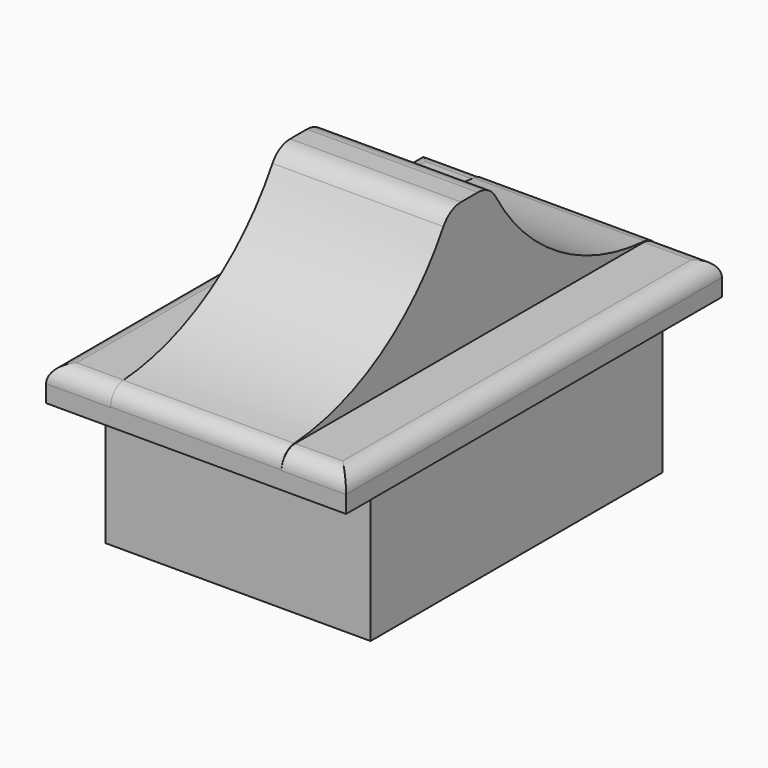
from build123d import *

# Parameters (mm, degrees)
SKETCH_W     = 15.49
SKETCH_H     = 21.33
PAD_DEPTH    = 8.13
SKETCH001_W  = 17.55
SKETCH001_H  = 27.48
PAD001_DEPTH = 2
SKETCH002_W  = 10
SKETCH002_H  = 3
PAD002_DEPTH = 7.5
PAD003_DEPTH = 10
FILLET_R     = 1
FILLET001_R  = 1
FILLET002_R  = 1.5


with BuildPart() as part:
    # Sketch → Pad (new body)
    with BuildSketch(Plane.XY):
        Rectangle(SKETCH_W, SKETCH_H)
    extrude(amount=PAD_DEPTH)

    # Sketch001 (on Face6 of Pad) → Pad001 (join)
    with BuildSketch(Plane.XY.offset(8.13)):
        Rectangle(SKETCH001_W, SKETCH001_H)
    extrude(amount=PAD001_DEPTH)

    # Sketch002 (on Face5 of Pad001) → Pad002 (join)
    with BuildSketch(Plane.XY.offset(10.13)):
        Rectangle(SKETCH002_W, SKETCH002_H)
    extrude(amount=PAD002_DEPTH)

    # Sketch003 (on Face14 of Pad002) → Pad003 (join)
    with BuildSketch(Plane(origin=(-5, 0, 0), x_dir=(0, -1, 0), z_dir=(-1, 0, 0))):
        with BuildLine():
            ThreePointArc((1.5, 17.63), (6.562473, 12.154115), (13.74, 10.13))
            Line((1.5, 10.13), (13.74, 10.13))
            Line((1.5, 17.63), (1.5, 10.13))
        make_face()
    pad003 = extrude(amount=-PAD003_DEPTH)

    # Mirrored: Pad003 across Sketch003 V_Axis
    add(pad003.mirror(Plane(origin=(-5, 0, 0), x_dir=(-1, 0, 0), z_dir=(0, -1, 0))))

    # Fillet
    fillet_edges = [part.edges().sort_by_distance(p)[0] for p in [
        (-8.775, 0, 10.13),
        (-6.8875, -13.74, 10.13),
        (-6.8875, 13.74, 10.13),
        (6.8875, 13.74, 10.13),
        (6.8875, -13.74, 10.13),
        (8.775, 0, 10.13),
    ]]
    fillet(fillet_edges, radius=FILLET_R)

    # Fillet001
    fillet001_edges = [part.edges().sort_by_distance(p)[0] for p in [
        (0, -13.74, 10.13),
        (0, 13.74, 10.13),
    ]]
    fillet(fillet001_edges, radius=FILLET001_R)

    # Fillet002
    fillet002_edges = [part.edges().sort_by_distance(p)[0] for p in [
        (0, 1.5, 17.63),
        (0, -1.5, 17.63),
    ]]
    fillet(fillet002_edges, radius=FILLET002_R)


solid = part.part
